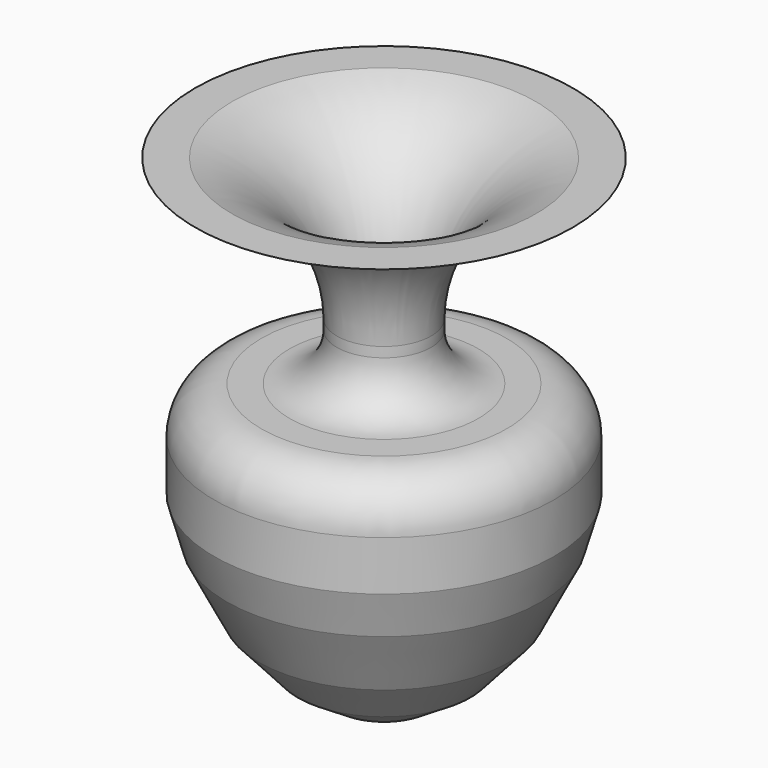
from build123d import *

# Parameters (mm, degrees)
F2_T = -2.54


with BuildPart() as f1:
    # F0 (on Front) → F1 (revolve)
    with BuildSketch(Plane.XZ):
        with BuildLine():
            Line((-46.3788546622, 13.346186839), (-25.4, 0))
            Line((-25.4, 0), (0, 0))
            Line((0, 0), (0, 254))
            Line((0, 254), (-76.2, 254))
            Line((-76.2, 254), (-101.6, 254))
            ThreePointArc((-101.6, 254), (-47.7184632736, 231.6815367264), (-25.4, 177.8))
            Line((-25.4, 177.8), (-25.4, 172.4196821451))
            ThreePointArc((-25.4, 172.4196821451), (-32.8394877579, 154.459169903), (-50.8, 147.0196821451))
            Line((-50.8, 147.0196821451), (-65.9909375668, 147.0196821451))
            ThreePointArc((-65.9909375668, 147.0196821451), (-83.9514498089, 139.5801943873), (-91.3909375668, 121.6196821451))
            Line((-91.3909375668, 121.6196821451), (-91.3909375668, 104.6750843525))
            Line((-91.3909375668, 104.6750843525), (-91.3909375668, 94.8699489236))
            Line((-91.3909375668, 94.8699489236), (-84.7056210041, 71.2484791875))
            Line((-84.7056210041, 71.2484791875), (-67.3237815499, 36.9304977357))
            Line((-67.3237815499, 36.9304977357), (-46.3788546622, 13.346186839))
        make_face()
    revolve(axis=Axis((0, 0, 127), (0, 0, -1)))

    # F2
    f2_openings = [f1.faces().sort_by_distance(p)[0] for p in [
        (0, 0, 254),
    ]]
    offset(amount=F2_T, openings=f2_openings)


solid = f1.part
